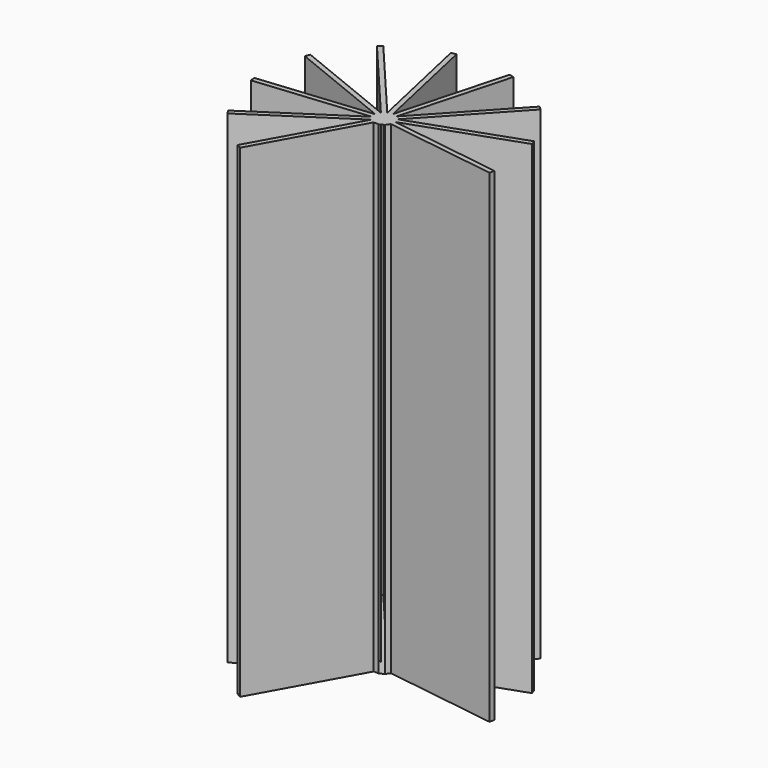
from build123d import *

# Parameters (mm, degrees)
F0_R      = 1.5879896125
F1_DEPTH  = 38.1
F3_DEPTH  = 76.2127
F4_DEPTH  = 17.78
F5_DEPTH  = 17.78
F6_DEPTH  = 17.78
F7_DEPTH  = 17.78
F8_DEPTH  = 17.78
F9_DEPTH  = 17.78
F10_DEPTH = 17.78
F11_DEPTH = 17.78
F12_DEPTH = 17.78
F13_DEPTH = 17.78


with BuildPart() as f1:
    # F0 (on Top) → F1 (new body, symmetric)
    with BuildSketch(Plane.XY):
        Circle(F0_R)
    extrude(amount=F1_DEPTH, both=True)

    # F2 (on face) → F3 (join)
    with BuildSketch(Plane.XY.offset(38.1)):
        Polygon((-1.1123073701, -1.1990332101), (-0.4276807465, -1.5786061902), (0.3549223821, -1.5965395164), (1.0562170702, -1.2487248797), (1.5155451564, -0.6148424219), (1.6276801115, 0.1598930251), (1.3669331687, 0.897998907), (0.7930383103, 1.4303840614), (0.0374679322, 1.6350854653), (-0.7266858977, 1.465208494), (-1.3243647459, 0.9596699144), (-1.6186475911, 0.2342825227), (-1.5421177801, -0.5447761715), align=None)
    extrude(amount=-F3_DEPTH)

    # F4 (add): a face of the model
    f4_faces = [f1.faces().sort_by_distance(p)[0] for p in [
        (-0.4457332213, -1.5685974768, -0.00635),
    ]]
    extrude(f4_faces, amount=F4_DEPTH)

    # F5 (add): a face of the model
    f5_faces = [f1.faces().sort_by_distance(p)[0] for p in [
        (-1.1236407617, -1.1817815312, -0.00635),
    ]]
    extrude(f5_faces, amount=F5_DEPTH)

    # F6 (add): a face of the model
    f6_faces = [f1.faces().sort_by_distance(p)[0] for p in [
        (-1.544135745, -0.5242336787, -0.00635),
    ]]
    extrude(f6_faces, amount=F6_DEPTH)

    # F7 (add): a face of the model
    f7_faces = [f1.faces().sort_by_distance(p)[0] for p in [
        (-1.6108878379, 0.2534097918, -0.00635),
    ]]
    extrude(f7_faces, amount=F7_DEPTH)

    # F8 (add): a face of the model
    f8_faces = [f1.faces().sort_by_distance(p)[0] for p in [
        (-1.3086049404, 0.9730001329, -0.00635),
    ]]
    extrude(f8_faces, amount=F8_DEPTH)

    # F9 (add): a face of the model
    f9_faces = [f1.faces().sort_by_distance(p)[0] for p in [
        (-0.7065364215, 1.4696878695, -0.00635),
    ]]
    extrude(f9_faces, amount=F9_DEPTH)

    # F10 (add): a face of the model
    f10_faces = [f1.faces().sort_by_distance(p)[0] for p in [
        (0.0573910768, 1.6296878269, -0.00635),
    ]]
    extrude(f10_faces, amount=F10_DEPTH)

    # F11 (add): a face of the model
    f11_faces = [f1.faces().sort_by_distance(p)[0] for p in [
        (0.8081709712, 1.416345943, -0.00635),
    ]]
    extrude(f11_faces, amount=F11_DEPTH)

    # F12 (add): a face of the model
    f12_faces = [f1.faces().sort_by_distance(p)[0] for p in [
        (1.3738086355, 0.8785362723, -0.00635),
    ]]
    extrude(f12_faces, amount=F12_DEPTH)

    # F13 (add): a face of the model
    f13_faces = [f1.faces().sort_by_distance(p)[0] for p in [
        (1.6247232976, 0.1394645292, -0.00635),
    ]]
    extrude(f13_faces, amount=F13_DEPTH)


solid = f1.part
